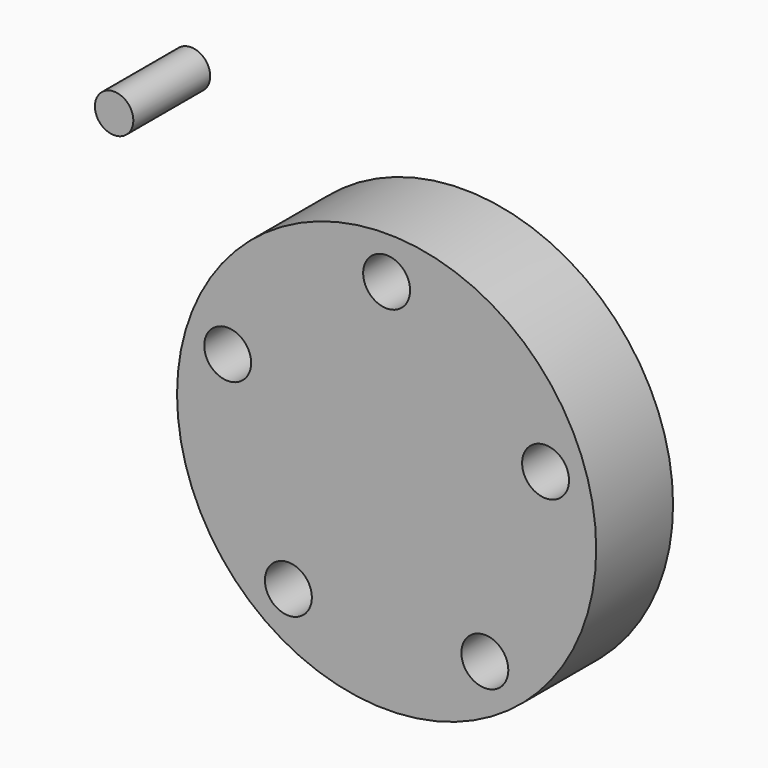
from build123d import *

# Parameters (mm, degrees)
F0_R     = 54.541838
F0_R_2   = 6.106167
F1_DEPTH = 25
F2_R     = 5
F3_DEPTH = 25


with BuildPart() as f1:
    # F0 (on Front) → F1 (new body)
    with BuildSketch(Plane.XZ):
        Circle(F0_R)
        with Locations((-25.562406, -35.183634)):
            Circle(F0_R_2, mode=Mode.SUBTRACT)
        with Locations((25.562406, -35.183634)):
            Circle(F0_R_2, mode=Mode.SUBTRACT)
        with Locations((-41.360842, 13.438952)):
            Circle(F0_R_2, mode=Mode.SUBTRACT)
        with Locations((41.360842, 13.438952)):
            Circle(F0_R_2, mode=Mode.SUBTRACT)
        with Locations((0, 43.489363)):
            Circle(F0_R_2, mode=Mode.SUBTRACT)
    extrude(amount=F1_DEPTH)


with BuildPart() as f3:
    # F2 (on Front) → F3 (new body)
    with BuildSketch(Plane.XZ):
        with Locations((-70.918337, 59.00839)):
            Circle(F2_R)
    extrude(amount=F3_DEPTH)


solid = Compound([f1.part, f3.part])
